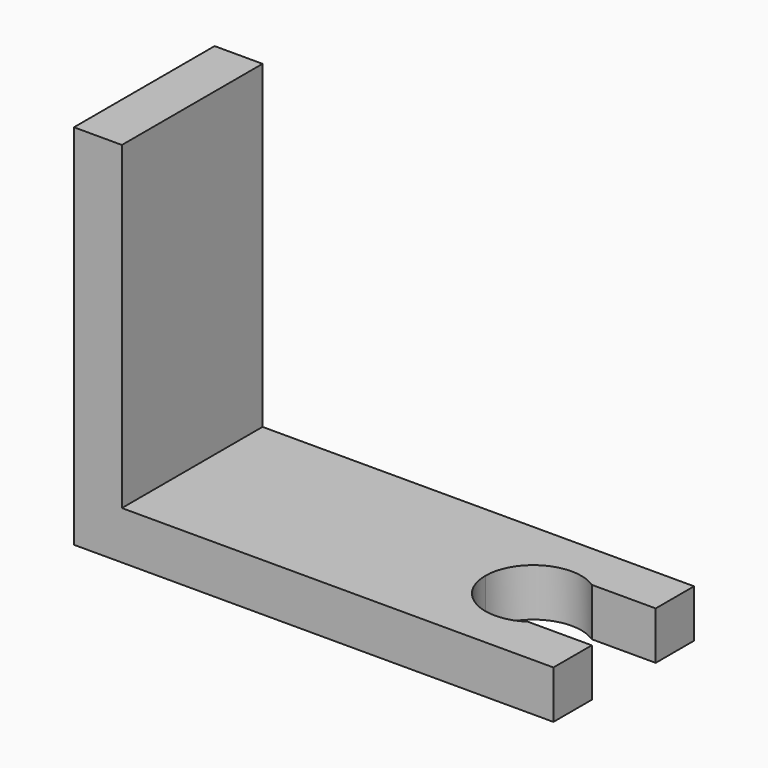
from build123d import *

# Parameters (mm, degrees)
F1_DEPTH = 3
F2_W     = 3
F2_H     = 11
F3_DEPTH = 20


with BuildPart() as f1:
    # F0 (on Top) → F1 (new body)
    with BuildSketch(Plane.XY):
        with BuildLine():
            Line((0, 5.5), (0, 0))
            Line((0, 0), (0, -5.5))
            Line((0, -5.5), (30, -5.5))
            Line((30, -5.5), (30, -2.5))
            Line((30, -2.5), (26, -2.5))
            ThreePointArc((26, -2.5), (22.92305, -2.643382), (21.341688, 0))
            ThreePointArc((21.341688, 0), (22.92305, 2.643382), (26, 2.5))
            Line((26, 2.5), (30, 2.5))
            Line((30, 2.5), (30, 5.5))
            Line((30, 5.5), (0, 5.5))
        make_face()
    extrude(amount=F1_DEPTH)

    # F2 (on face) → F3 (join)
    with BuildSketch(Plane.XY.offset(3)):
        with Locations((1.5, 0)):
            Rectangle(F2_W, F2_H)
    extrude(amount=F3_DEPTH)


solid = f1.part
